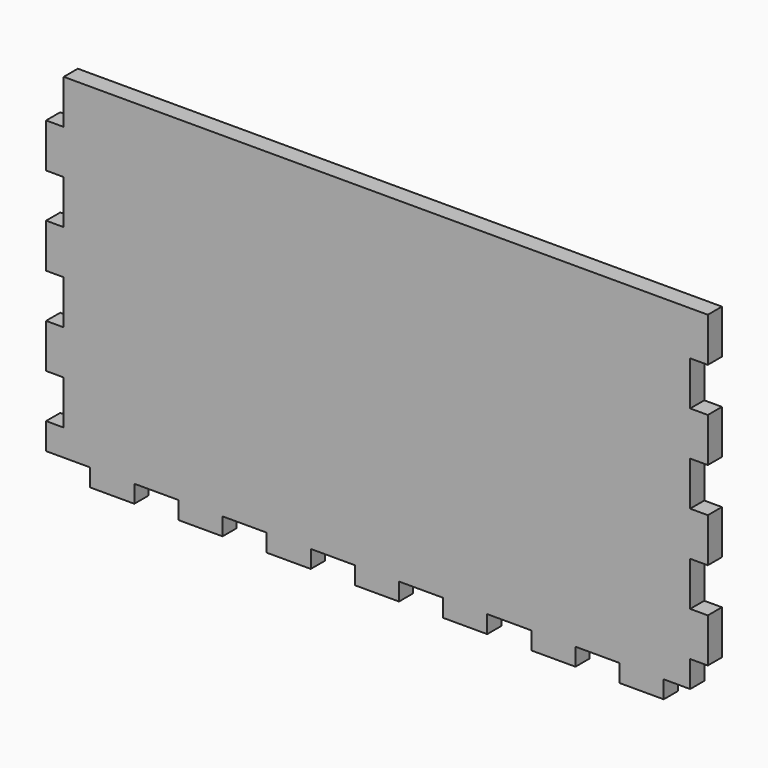
from build123d import *

# Parameters (mm, degrees)
F0_W     = 750
F0_H     = 400
F1_DEPTH = 20
F2_W     = 20
F2_H     = 50
F2_H_2   = 30
F3_DEPTH = 20
F2_H_3   = 20
F2_W_2   = 30
F2_W_3   = 50
F4_DEPTH = 20


with BuildPart() as f1:
    # F0 (on Front) → F1 (new body)
    with BuildSketch(Plane.XZ):
        with Locations((4.104346, -200)):
            Rectangle(F0_W, F0_H)
    extrude(amount=F1_DEPTH)

    # F2 (on face) → F3 (cut)
    with BuildSketch(Plane.XZ.offset(20)):
        with Locations((-360.895654, -25)):
            Rectangle(F2_W, F2_H)
        with Locations((-360.895654, -125)):
            Rectangle(F2_W, F2_H)
        with Locations((-360.895654, -225)):
            Rectangle(F2_W, F2_H)
        with Locations((-360.895654, -325)):
            Rectangle(F2_W, F2_H)
        with Locations((369.104346, -365)):
            Rectangle(F2_W, F2_H_2)
        with Locations((369.104346, -275)):
            Rectangle(F2_W, F2_H)
        with Locations((369.104346, -175)):
            Rectangle(F2_W, F2_H)
        with Locations((369.104346, -75)):
            Rectangle(F2_W, F2_H)
    extrude(amount=-F3_DEPTH, mode=Mode.SUBTRACT)

    # F2 (on face) → F4 (cut)
    with BuildSketch(Plane.XZ.offset(20)):
        with Locations((-360.895654, -390)):
            Rectangle(F2_W, F2_H_3)
        with Locations((-335.895654, -390)):
            Rectangle(F2_W_2, F2_H_3)
        with Locations((-245.895654, -390)):
            Rectangle(F2_W_3, F2_H_3)
        with Locations((-145.895654, -390)):
            Rectangle(F2_W_3, F2_H_3)
        with Locations((-45.895654, -390)):
            Rectangle(F2_W_3, F2_H_3)
        with Locations((54.104346, -390)):
            Rectangle(F2_W_3, F2_H_3)
        with Locations((154.104346, -390)):
            Rectangle(F2_W_3, F2_H_3)
        with Locations((254.104346, -390)):
            Rectangle(F2_W_3, F2_H_3)
        with Locations((344.104346, -390)):
            Rectangle(F2_W_2, F2_H_3)
        with Locations((369.104346, -390)):
            Rectangle(F2_W, F2_H_3)
    extrude(amount=-F4_DEPTH, mode=Mode.SUBTRACT)


solid = f1.part
